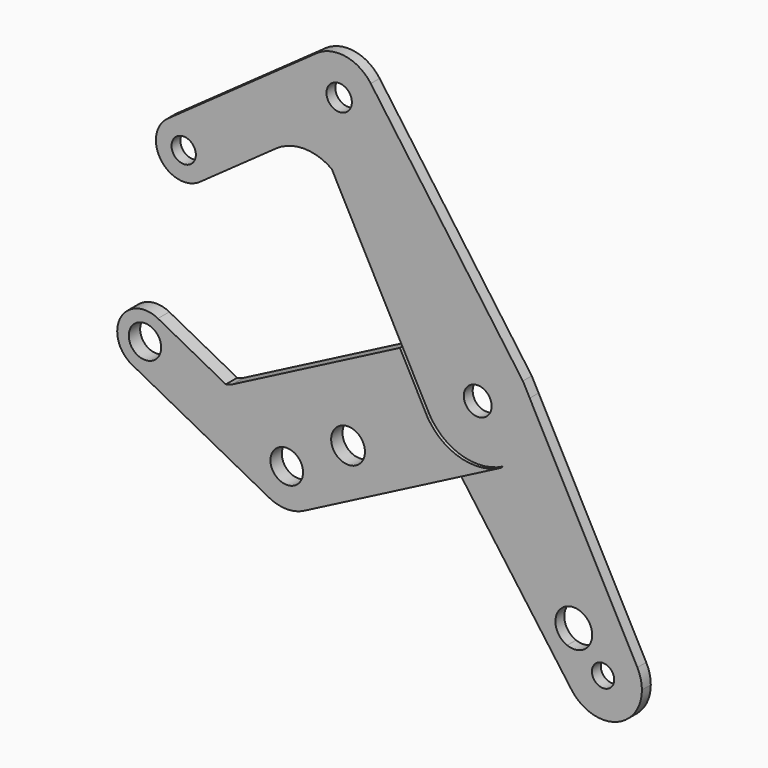
from build123d import *

# Parameters (mm, degrees)
F0_R     = 3.9751
F0_R_2   = 3.628816
F0_R_3   = 3.472518
F0_R_4   = 3.175
F1_DEPTH = 3.175
F0_R_5   = 4.832637
F0_R_6   = 4.629733
F0_R_7   = 4.657638
F2_DEPTH = 4.064


with BuildPart() as f1:
    # F0 (on Front) → F1 (new body)
    with BuildSketch(Plane.XZ):
        with BuildLine():
            Line((-21.536162, 6.73628), (-14.027085, -7.433472))
            ThreePointArc((-14.027085, -7.433472), (-8.356432, 13.497617), (12.907511, 9.241849))
            Line((12.907511, 9.241849), (-30.573676, 69.969295))
            ThreePointArc((-30.573676, 69.969295), (-29.028481, 66.897304), (-28.496434, 63.5))
            ThreePointArc((-28.496434, 63.5), (-44.703185, 53.623955), (-46.050767, 72.554858))
            Line((-46.050767, 72.554858), (-88.660243, 42.241502))
            ThreePointArc((-88.660243, 42.241502), (-80.420183, 42.828064), (-76.121434, 35.773746))
            ThreePointArc((-76.121434, 35.773746), (-77.004616, 32.134995), (-79.457625, 29.305991))
            Line((-79.457625, 29.305991), (-57.624544, 44.838544))
            ThreePointArc((-57.624544, 44.838544), (-49.676253, 47.377377), (-41.727963, 44.838544))
            Line((-41.727963, 44.838544), (-21.536162, 6.73628))
        make_face()
        with BuildLine():
            ThreePointArc((15.875, 0), (13.560284, -8.254351), (7.29115, -14.101587))
            Line((7.29115, -14.101587), (-4.828069, -20.367764))
            Line((-4.828069, -20.367764), (26.841076, -63.975835))
            ThreePointArc((26.841076, -63.975835), (24.794526, -58.729524), (25.582612, -53.153588))
            ThreePointArc((25.582612, -53.153588), (22.258247, -47.600731), (26.841076, -43.030907))
            ThreePointArc((26.841076, -43.030907), (30.393334, -43.877214), (32.537179, -46.833344))
            ThreePointArc((32.537179, -46.833344), (40.05933, -47.168661), (45.640942, -52.222451))
            Line((45.640942, -52.222451), (14.872281, 5.552558))
            ThreePointArc((14.872281, 5.552558), (15.622309, 2.821185), (15.875, 0))
        make_face()
        with BuildLine():
            ThreePointArc((-12.845102, -9.328397), (-3.661616, -15.446948), (7.29115, -14.101587))
            ThreePointArc((7.29115, -14.101587), (13.560284, -8.254351), (15.875, 0))
            ThreePointArc((15.875, 0), (15.622309, 2.821185), (14.872281, 5.552558))
            Line((14.872281, 5.552558), (12.907511, 9.241849))
            ThreePointArc((12.907511, 9.241849), (-8.356432, 13.497617), (-14.027085, -7.433472))
            ThreePointArc((-14.027085, -7.433472), (-13.469458, -8.401746), (-12.845102, -9.328397))
        make_face()
        Circle(F0_R, mode=Mode.SUBTRACT)
        with BuildLine():
            ThreePointArc((-28.496434, 63.5), (-29.028481, 66.897304), (-30.573676, 69.969295))
            ThreePointArc((-30.573676, 69.969295), (-37.777883, 74.460607), (-46.050767, 72.554858))
            ThreePointArc((-46.050767, 72.554858), (-44.703185, 53.623955), (-28.496434, 63.5))
        make_face()
        with Locations((-39.608934, 63.5)):
            Circle(F0_R_2, mode=Mode.SUBTRACT)
        with BuildLine():
            ThreePointArc((-76.121434, 35.773746), (-80.420183, 42.828064), (-88.660243, 42.241502))
            ThreePointArc((-88.660243, 42.241502), (-90.526689, 31.172437), (-79.457625, 29.305991))
            ThreePointArc((-79.457625, 29.305991), (-77.004616, 32.134995), (-76.121434, 35.773746))
        make_face()
        with Locations((-84.058934, 35.773746)):
            Circle(F0_R_3, mode=Mode.SUBTRACT)
        with BuildLine():
            ThreePointArc((25.582612, -53.153588), (24.794526, -58.729524), (26.841076, -63.975835))
            ThreePointArc((26.841076, -63.975835), (39.26549, -68.014932), (46.945147, -57.445957))
            ThreePointArc((46.945147, -57.445957), (46.614167, -54.754026), (45.640942, -52.222451))
            ThreePointArc((45.640942, -52.222451), (40.05933, -47.168661), (32.537179, -46.833344))
            ThreePointArc((32.537179, -46.833344), (31.010164, -52.13947), (25.582612, -53.153588))
        make_face()
        with Locations((35.832647, -57.445957)):
            Circle(F0_R_4, mode=Mode.SUBTRACT)
    extrude(amount=F1_DEPTH)


with BuildPart() as f2:
    # F0 (on Front) → F2 (new body)
    with BuildSketch(Plane.XZ):
        with BuildLine():
            Line((-4.828069, -20.367764), (7.29115, -14.101587))
            ThreePointArc((7.29115, -14.101587), (-3.661616, -15.446948), (-12.845102, -9.328397))
            Line((-12.845102, -9.328397), (-4.828069, -20.367764))
        make_face()
        with BuildLine():
            Line((-4.828069, -20.367764), (-12.845102, -9.328397))
            Line((-12.845102, -9.328397), (-13.502905, -8.422609))
            Line((-13.502905, -8.422609), (-14.027085, -7.433472))
            Line((-14.027085, -7.433472), (-21.536162, 6.73628))
            Line((-21.536162, 6.73628), (-69.354503, -17.987935))
            ThreePointArc((-69.354503, -17.987935), (-70.300348, -18.383787), (-71.297571, -18.622251))
            Line((-71.297571, -18.622251), (-90.709241, -8.361662))
            ThreePointArc((-90.709241, -8.361662), (-87.619767, -11.282719), (-86.481032, -15.379145))
            ThreePointArc((-86.481032, -15.379145), (-90.322105, -22.17791), (-98.127822, -22.396629))
            Line((-98.127822, -22.396629), (-58.909646, -43.126509))
            ThreePointArc((-58.909646, -43.126509), (-59.434814, -24.38416), (-43.110263, -33.606983))
            ThreePointArc((-43.110263, -33.606983), (-44.680269, -39.205679), (-48.932448, -43.171695))
            Line((-48.932448, -43.171695), (-4.828069, -20.367764))
        make_face()
        with Locations((-36.35676, -22.677992)):
            Circle(F0_R_5, mode=Mode.SUBTRACT)
        with BuildLine():
            ThreePointArc((-90.709241, -8.361662), (-101.436015, -11.669855), (-98.127822, -22.396629))
            ThreePointArc((-98.127822, -22.396629), (-90.322105, -22.17791), (-86.481032, -15.379145))
            ThreePointArc((-86.481032, -15.379145), (-87.619767, -11.282719), (-90.709241, -8.361662))
        make_face()
        with Locations((-94.418532, -15.379145)):
            Circle(F0_R_6, mode=Mode.SUBTRACT)
        with BuildLine():
            ThreePointArc((-58.909646, -43.126509), (-53.926597, -44.374441), (-48.932448, -43.171695))
            ThreePointArc((-48.932448, -43.171695), (-44.680269, -39.205679), (-43.110263, -33.606983))
            ThreePointArc((-43.110263, -33.606983), (-59.434814, -24.38416), (-58.909646, -43.126509))
        make_face()
        with Locations((-53.877831, -33.606983)):
            Circle(F0_R_7, mode=Mode.SUBTRACT)
    extrude(amount=F2_DEPTH)


solid = Compound([f1.part, f2.part])
